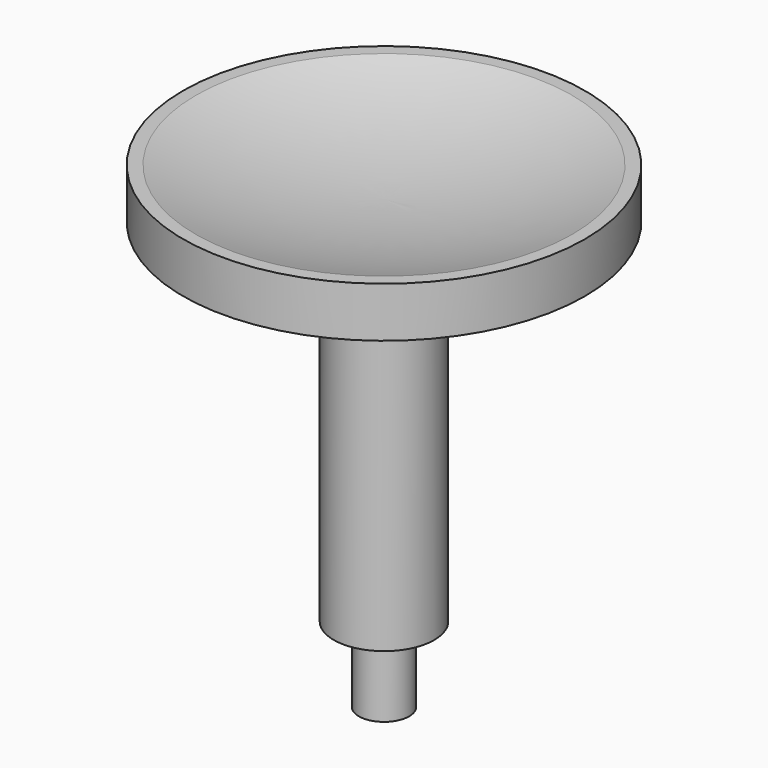
from build123d import *


with BuildPart() as f1:
    # F0 (on Front) → F1 (revolve)
    with BuildSketch(Plane.XZ):
        Polygon((10, 35), (5, 35), (5, -7.5), (7.5, -7.5), (7.5, 0), (10, 0), align=None)
        with BuildLine():
            Line((5, 37), (5, 35))
            Line((5, 35), (10, 35))
            Line((10, 35), (25, 35))
            Line((25, 35), (25, 40))
            Line((25, 40), (23.734994, 40))
            ThreePointArc((23.734994, 40), (14.486833, 37.754747), (5, 37))
        make_face()
    revolve(axis=Axis((5, 0, 14.75), (0, 0, 1)))


solid = f1.part
